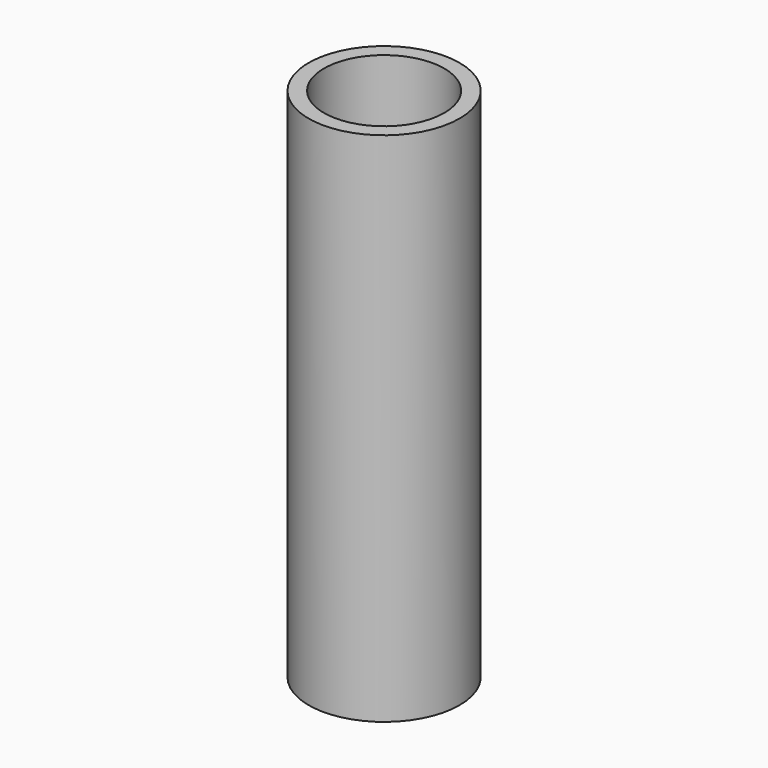
from build123d import *

# Parameters (mm, degrees)
SKETCH_R   = 16.7005
SKETCH_R_2 = 13.3223
PAD_DEPTH  = 114.3


with BuildPart() as part:
    # Sketch → Pad (new body)
    with BuildSketch(Plane.XY):
        Circle(SKETCH_R)
        Circle(SKETCH_R_2, mode=Mode.SUBTRACT)
    extrude(amount=PAD_DEPTH)


solid = part.part
